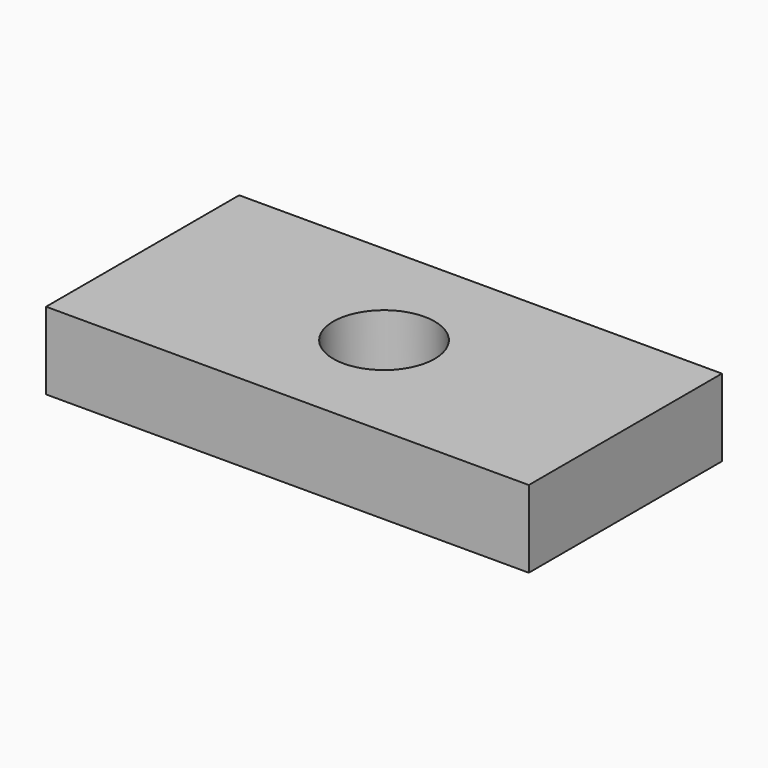
from build123d import *

# Parameters (mm, degrees)
F0_W     = 50
F0_H     = 25
F1_DEPTH = 8
F2_R     = 5.25
F3_DEPTH = 8.001


with BuildPart() as f1:
    # F0 (on Top) → F1 (new body)
    with BuildSketch(Plane.XY):
        Rectangle(F0_W, F0_H)
    extrude(amount=-F1_DEPTH)

    # F2 (on face) → F3 (cut, through all)
    with BuildSketch(Plane.XY):
        Circle(F2_R)
    extrude(amount=-F3_DEPTH, mode=Mode.SUBTRACT)


solid = f1.part
